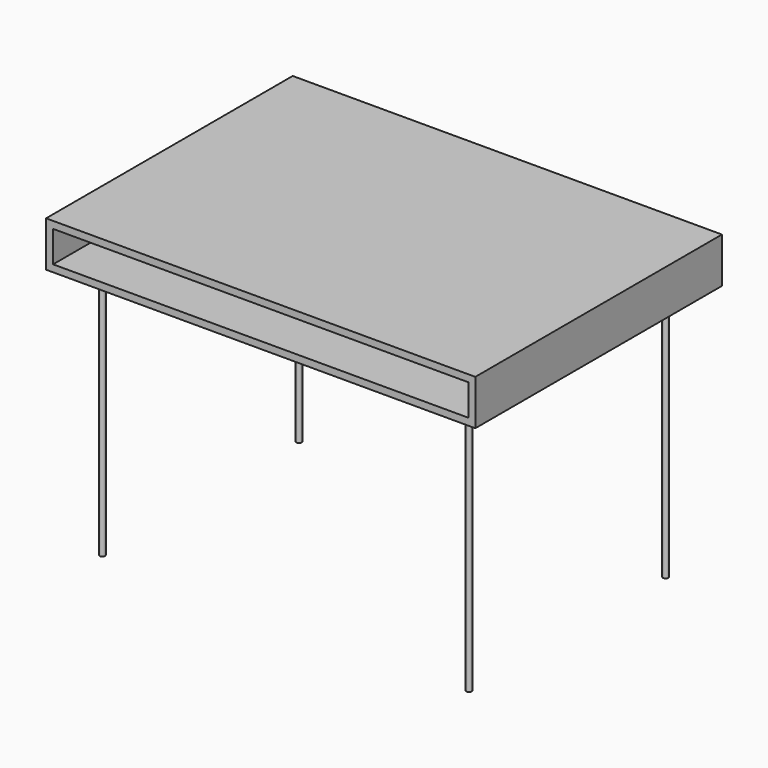
from build123d import *

# Parameters (mm, degrees)
F1_DEPTH = 790
F2_R     = 7
F3_DEPTH = 650


with BuildPart() as f1:
    # F0 (on Front) → F1 (new body)
    with BuildSketch(Plane.XZ):
        Polygon((-532, 18), (-550, 0), (550, 0), (550, 18), (532, 18), align=None)
        Polygon((532, 18), (550, 18), (550, 116), (532, 98), align=None)
        Polygon((-550, 116), (-550, 98), (-532, 98), (532, 98), (550, 116), align=None)
        Polygon((-550, 98), (-550, 0), (-532, 18), (-532, 98), align=None)
    extrude(amount=F1_DEPTH)


with BuildPart() as f3:
    # F2 (on face) → F3 (new body)
    with BuildSketch(Plane(origin=(0, 0, 0), x_dir=(1, 0, 0), z_dir=(0, 0, -1))):
        with Locations((-470, 80)):
            Circle(F2_R)
        with Locations((-470, 710)):
            Circle(F2_R)
        with Locations((470, 80)):
            Circle(F2_R)
        with Locations((470, 710)):
            Circle(F2_R)
    extrude(amount=F3_DEPTH)


solid = Compound([f1.part, f3.part])
